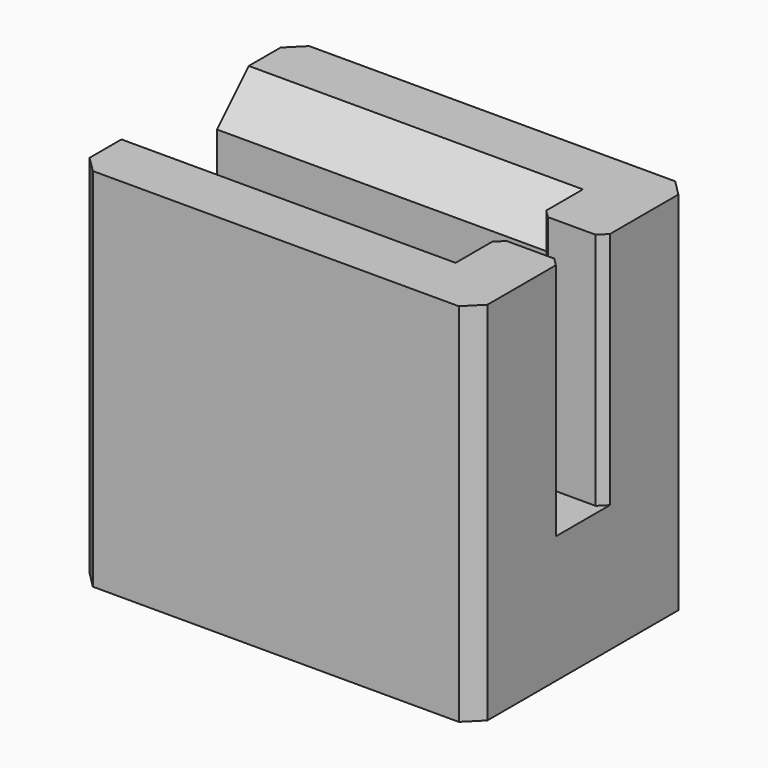
from build123d import *

# Parameters (mm, degrees)
F1_DEPTH = 34
F2_W     = 6.5
F2_H     = 30
F3_DEPTH = 8
F4_R     = 3.5
F5_DEPTH = 6
F6_W     = 42
F6_H     = 12
F7_DEPTH = 30
F8_SIZE  = 5
F9_SIZE  = 2
F10_SIZE = 1


with BuildPart() as f1:
    # F0 (on Front) → F1 (new body)
    with BuildSketch(Plane.XZ):
        Polygon((-20, 8), (-25, 8), (-25, -8), (25, -8), (25, 38), (17, 38), (17, 8), align=None)
    extrude(amount=F1_DEPTH)

    # F2 (on face) → F3 (cut, through all)
    with BuildSketch(Plane.YZ.offset(25)):
        with Locations((-17, 23)):
            Rectangle(F2_W, F2_H)
    extrude(amount=-F3_DEPTH, mode=Mode.SUBTRACT)

    # F4 (on face) → F5 (cut)
    with BuildSketch(Plane(origin=(-25, 0, 0), x_dir=(0, -1, 0), z_dir=(-1, 0, 0))):
        with Locations((17, 0)):
            Circle(F4_R)
    extrude(amount=-F5_DEPTH, mode=Mode.SUBTRACT)

    # F6 (on face) → F7 (join, through all)
    with BuildSketch(Plane.XY.offset(8)):
        with Locations((-4, -28)):
            Rectangle(F6_W, F6_H)
        with Locations((-4, -6)):
            Rectangle(F6_W, F6_H)
    extrude(amount=F7_DEPTH)

    # F8
    f8_edges = [f1.edges().sort_by_distance(p)[0] for p in [
        (-4, -22, 38),
        (-4, -12, 38),
    ]]
    chamfer(f8_edges, length=F8_SIZE)

    # F9
    f9_edges = [f1.edges().sort_by_distance(p)[0] for p in [
        (25, -34, 15),
        (25, 0, 15),
        (-25, -34, 15),
        (-25, 0, 15),
    ]]
    chamfer(f9_edges, length=F9_SIZE)

    # F10
    f10_edges = [f1.edges().sort_by_distance(p)[0] for p in [
        (17, -13.75, 23),
        (17, -20.25, 23),
        (25, -13.75, 23),
        (25, -20.25, 23),
    ]]
    chamfer(f10_edges, length=F10_SIZE)


solid = f1.part
